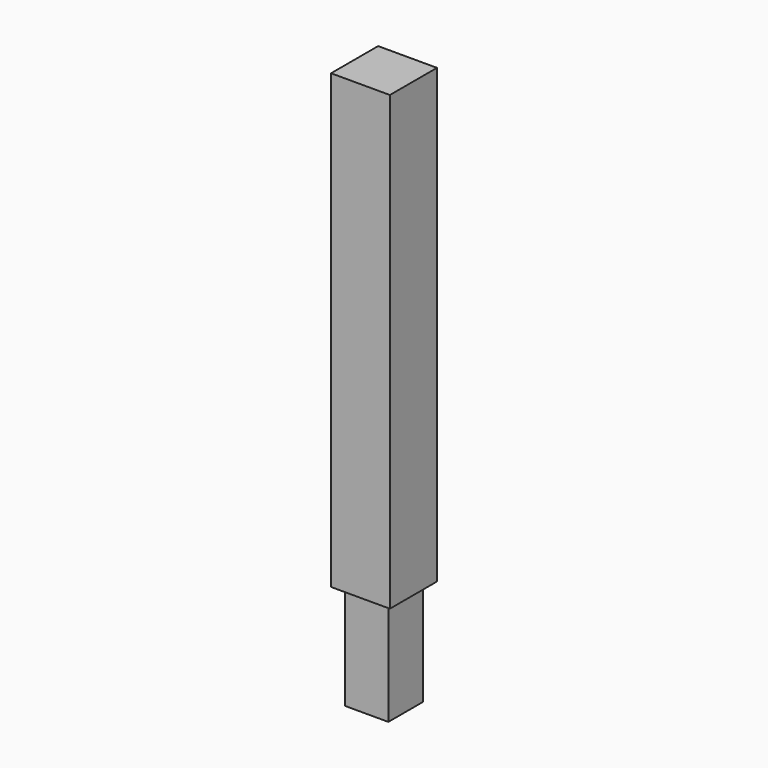
from build123d import *

# Parameters (mm, degrees)
F0_W     = 95
F0_H     = 95
F1_DEPTH = 900
F2_W     = 95
F2_H     = 95
F2_W_2   = 70
F2_H_2   = 70
F3_DEPTH = 170


with BuildPart() as f1:
    # F0 (on Top) → F1 (new body)
    with BuildSketch(Plane.XY):
        Rectangle(F0_W, F0_H)
    extrude(amount=-F1_DEPTH)

    # F2 (on face) → F3 (cut)
    with BuildSketch(Plane(origin=(0, 0, -900), x_dir=(1, 0, 0), z_dir=(0, 0, -1))):
        Rectangle(F2_W, F2_H)
        Rectangle(F2_W_2, F2_H_2, mode=Mode.SUBTRACT)
    extrude(amount=-F3_DEPTH, mode=Mode.SUBTRACT)


solid = f1.part
